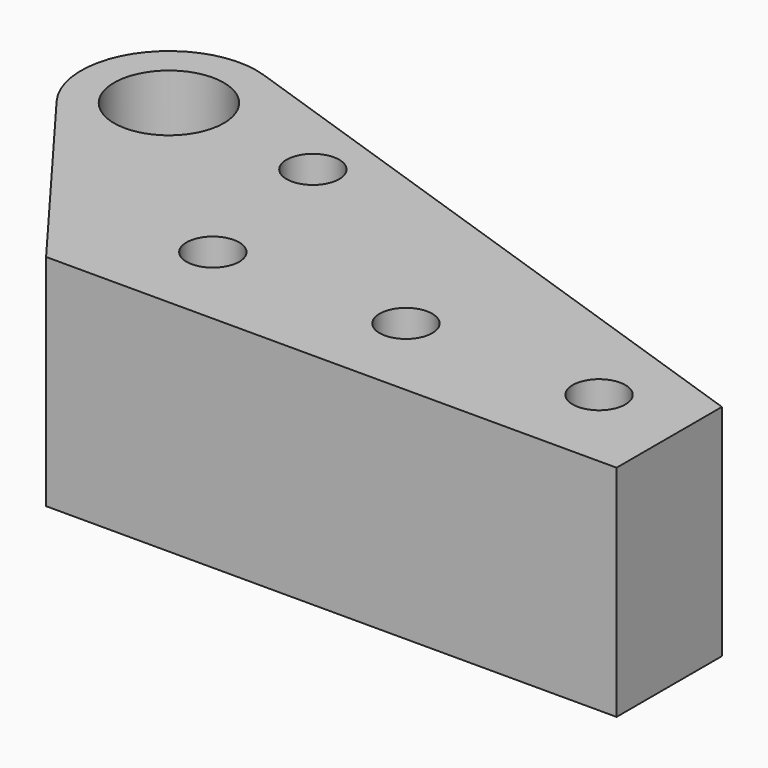
from build123d import *

# Parameters (mm, degrees)
F0_R     = 3
F0_R_2   = 6.25
F1_DEPTH = 25


with BuildPart() as f1:
    # F0 (on Top) → F1 (new body)
    with BuildSketch(Plane.XY):
        with BuildLine():
            Line((37, -5), (-34.773622, 19.465225))
            ThreePointArc((-34.773622, 19.465225), (-46.092599, 15.874508), (-46, 4))
            Line((-46, 4), (-28, -20))
            Line((-28, -20), (37, -20))
            Line((37, -20), (37, -5))
        make_face()
        with Locations((-17, -10)):
            Circle(F0_R, mode=Mode.SUBTRACT)
        with Locations((5, -10)):
            Circle(F0_R, mode=Mode.SUBTRACT)
        with Locations((27, -10)):
            Circle(F0_R, mode=Mode.SUBTRACT)
        with Locations((-20, 8)):
            Circle(F0_R, mode=Mode.SUBTRACT)
        with Locations((-38, 10)):
            Circle(F0_R_2, mode=Mode.SUBTRACT)
    extrude(amount=F1_DEPTH)


solid = f1.part
